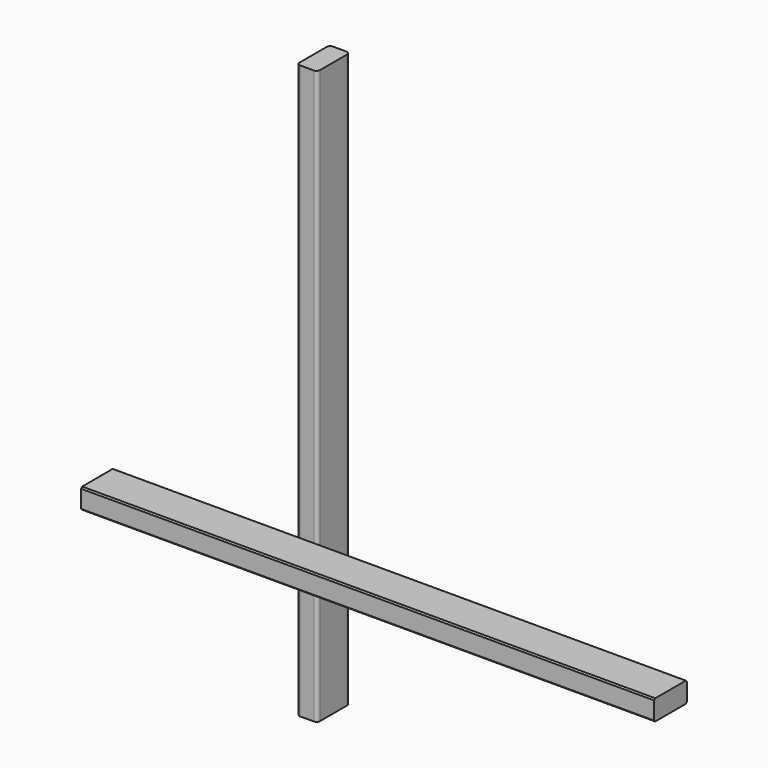
from build123d import *

# Parameters (mm, degrees)
F0_W     = 38.1
F0_H     = 533.4
F1_DEPTH = 19.05
F2_R     = 3.175
F3_W     = 533.4
F3_H     = 38.1
F4_DEPTH = 19.05
F5_SIZE  = 1.27


with BuildPart() as f1:
    # F0 (on Right) → F1 (new body)
    with BuildSketch(Plane.YZ):
        with Locations((-34.102181, -2.253657)):
            Rectangle(F0_W, F0_H)
    extrude(amount=F1_DEPTH)

    # F2
    f2_edges = [f1.edges().sort_by_distance(p)[0] for p in [
        (0, -53.152181, -2.253657),
        (19.05, -53.152181, -2.253657),
        (0, -15.052181, -2.253657),
        (19.05, -15.052181, -2.253657),
    ]]
    fillet(f2_edges, radius=F2_R)


with BuildPart() as f4:
    # F3 (on Top) → F4 (new body)
    with BuildSketch(Plane.XY):
        with Locations((265.725854, -283.801692)):
            Rectangle(F3_W, F3_H)
    extrude(amount=F4_DEPTH)

    # F5
    f5_edges = [f4.edges().sort_by_distance(p)[0] for p in [
        (265.725854, -264.751692, 0),
        (265.725854, -264.751692, 19.05),
        (265.725854, -302.851692, 0),
        (265.725854, -302.851692, 19.05),
    ]]
    chamfer(f5_edges, length=F5_SIZE)


solid = Compound([f1.part, f4.part])
